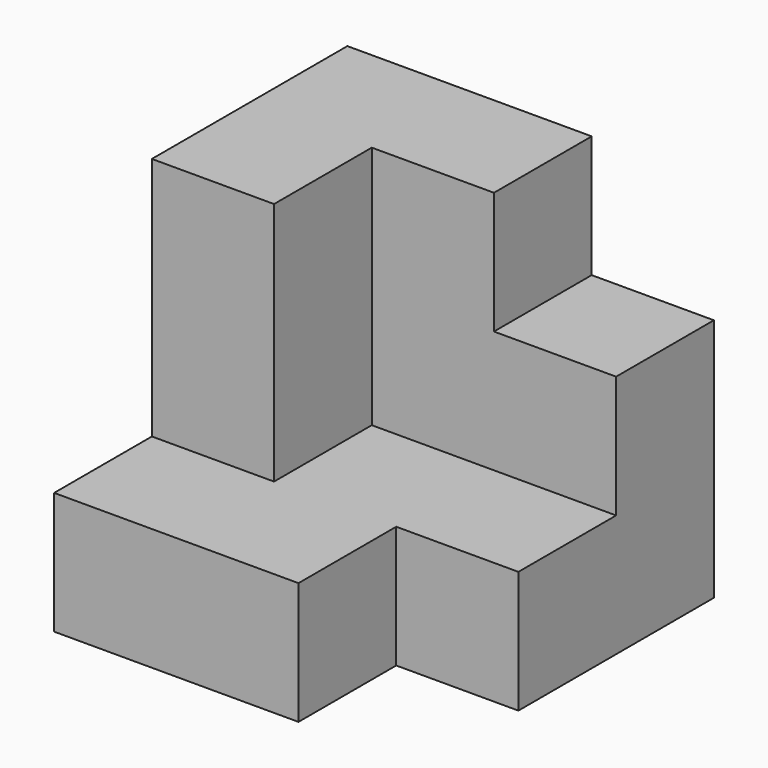
from build123d import *

# Parameters (mm, degrees)
F0_W     = 30
F0_H     = 30
F1_DEPTH = 30
F3_DEPTH = 20
F4_W     = 10
F4_H     = 10
F5_DEPTH = 10.001
F6_W     = 10
F6_H     = 10
F7_DEPTH = 10.001


with BuildPart() as f1:
    # F0 (on Top) → F1 (new body)
    with BuildSketch(Plane.XY):
        with Locations((15, 15)):
            Rectangle(F0_W, F0_H)
    extrude(amount=F1_DEPTH)

    # F2 (on face) → F3 (cut)
    with BuildSketch(Plane.XY.offset(30)):
        Polygon((10, 10), (0, 10), (0, 0), (30, 0), (30, 20), (10, 20), align=None)
    extrude(amount=-F3_DEPTH, mode=Mode.SUBTRACT)

    # F4 (on face) → F5 (cut, through all)
    with BuildSketch(Plane.XZ.offset(-20)):
        with Locations((25, 25)):
            Rectangle(F4_W, F4_H)
    extrude(amount=-F5_DEPTH, mode=Mode.SUBTRACT)

    # F6 (on face) → F7 (cut, through all)
    with BuildSketch(Plane.XY.offset(10)):
        with Locations((25, 5)):
            Rectangle(F6_W, F6_H)
    extrude(amount=-F7_DEPTH, mode=Mode.SUBTRACT)


solid = f1.part
